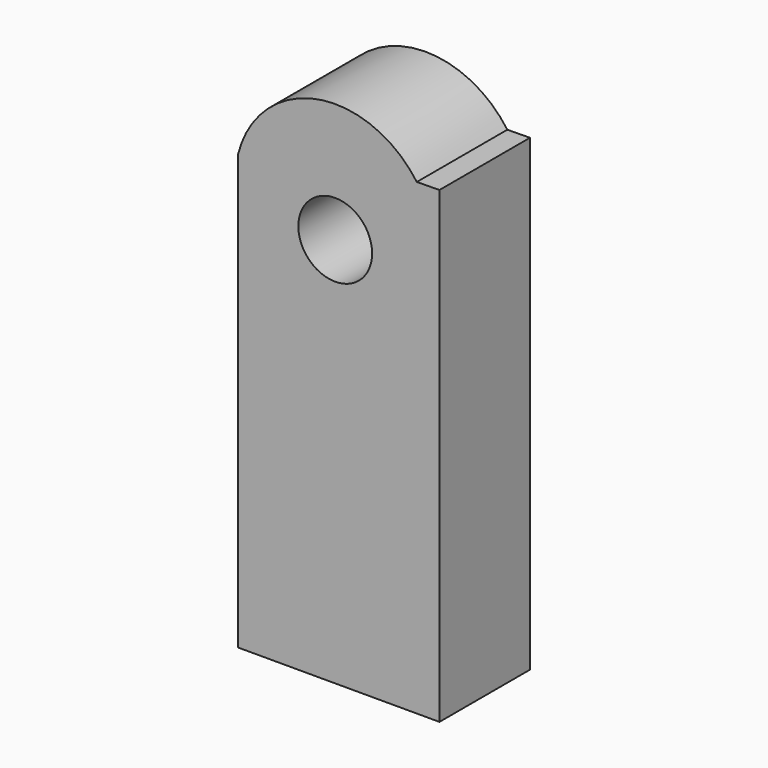
from build123d import *

# Parameters (mm, degrees)
F0_R     = 8.2831799599
F1_DEPTH = 25.4


with BuildPart() as f1:
    # F0 (on Front) → F1 (new body)
    with BuildSketch(Plane.XZ):
        with BuildLine():
            ThreePointArc((-18.6556393077, 44.2802232086), (-20.5488619587, 40.8512633807), (-21.8180753291, 37.1457060773))
            Line((-21.8180753291, 37.1457060773), (-21.8180753291, 26.3399014275))
            ThreePointArc((-21.8180753291, 26.3399014275), (2.7214729207, 9.431072539), (22.4770942205, 31.7428037524))
            ThreePointArc((22.4770942205, 31.7428037524), (21.412432107, 38.5785565171), (18.3193044811, 44.7667374103))
            Line((18.3193044811, 44.7667374103), (-18.6556393077, 44.2802232086))
        make_face()
        with Locations((0, 27.3791905493)):
            Circle(F0_R, mode=Mode.SUBTRACT)
        with BuildLine():
            ThreePointArc((18.3193044811, 44.7667374103), (-0.2957267252, 54.2179524794), (-18.6556393077, 44.2802232086))
            Line((-18.6556393077, 44.2802232086), (18.3193044811, 44.7667374103))
        make_face()
        with BuildLine():
            ThreePointArc((22.4770942205, 31.7428037524), (2.7214729207, 9.431072539), (-21.8180753291, 26.3399014275))
            Line((-21.8180753291, 26.3399014275), (-21.8180753291, -60.2898076177))
            Line((-21.8180753291, -60.2898076177), (23.4048459679, -60.2898076177))
            Line((23.4048459679, -60.2898076177), (23.4048459679, 44.8336526752))
            Line((23.4048459679, 44.8336526752), (18.3193044811, 44.7667374103))
            ThreePointArc((18.3193044811, 44.7667374103), (21.412432107, 38.5785565171), (22.4770942205, 31.7428037524))
        make_face()
    extrude(amount=F1_DEPTH)


solid = f1.part
